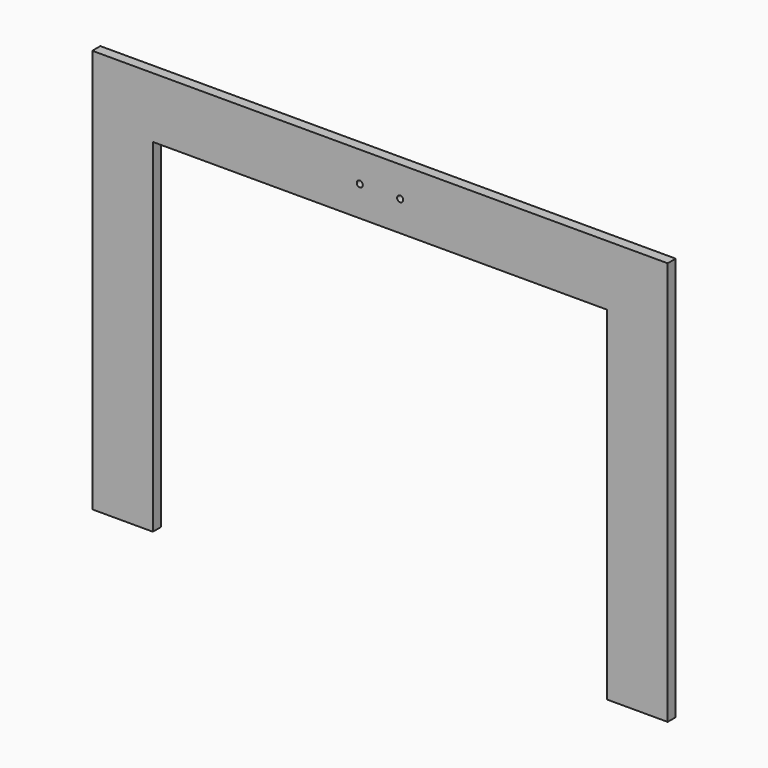
from build123d import *

# Parameters (mm, degrees)
F0_W     = 285
F0_H     = 200
F1_DEPTH = 5
F2_W     = 225
F2_H     = 170
F3_DEPTH = 25
F4_R     = 1.5
F5_DEPTH = 25


with BuildPart() as f1:
    # F0 (on Front) → F1 (new body)
    with BuildSketch(Plane.XZ):
        Rectangle(F0_W, F0_H)
    extrude(amount=F1_DEPTH)

    # F2 (on face) → F3 (cut)
    with BuildSketch(Plane.XZ.offset(5)):
        with Locations((0, -15)):
            Rectangle(F2_W, F2_H)
    extrude(amount=-F3_DEPTH, mode=Mode.SUBTRACT)

    # F4 (on face) → F5 (cut)
    with BuildSketch(Plane.XZ.offset(5)):
        with Locations((-10, 85)):
            Circle(F4_R)
        with Locations((10, 85)):
            Circle(F4_R)
    extrude(amount=-F5_DEPTH, mode=Mode.SUBTRACT)


solid = f1.part
